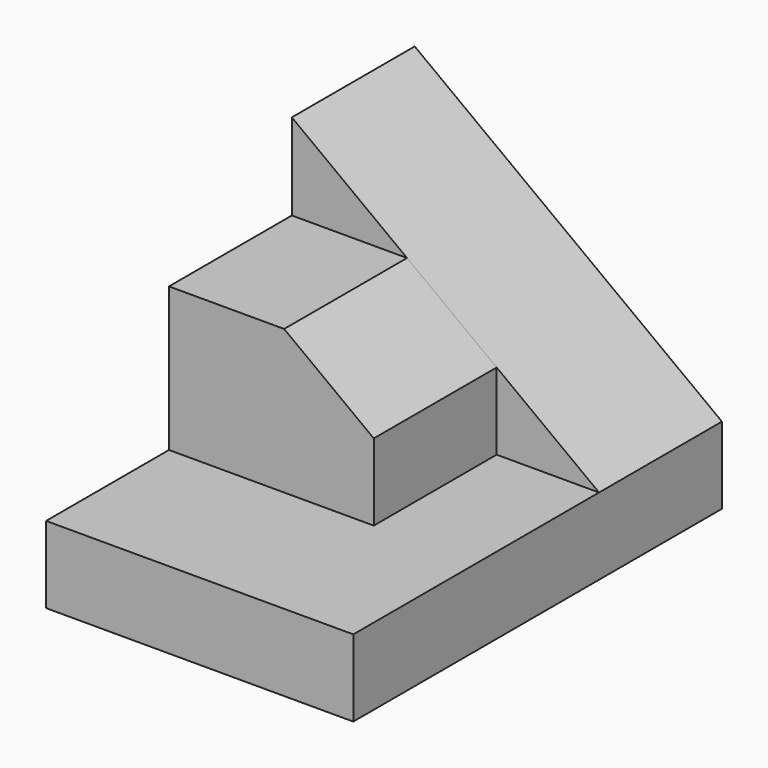
from build123d import *

# Parameters (mm, degrees)
F0_W     = 25.4
F0_H     = 6.35
F1_DEPTH = 38.1
F2_DEPTH = 12.7
F4_DEPTH = 12.7


with BuildPart() as f1:
    # F0 (on Front) → F1 (new body)
    with BuildSketch(Plane.XZ):
        with Locations((12.7, -3.175)):
            Rectangle(F0_W, F0_H)
    extrude(amount=F1_DEPTH)

    # F0 (on Front) → F2 (join)
    with BuildSketch(Plane.XZ):
        Polygon((0, 19.05), (0, 0), (25.4, 0), align=None)
    extrude(amount=F2_DEPTH)

    # F3 (on face) → F4 (join)
    with BuildSketch(Plane.XZ.offset(12.7)):
        Polygon((0, 11.90625), (0, 0), (16.933333, 0), (16.933333, 6.35), (9.525, 11.90625), align=None)
    extrude(amount=F4_DEPTH)


solid = f1.part
